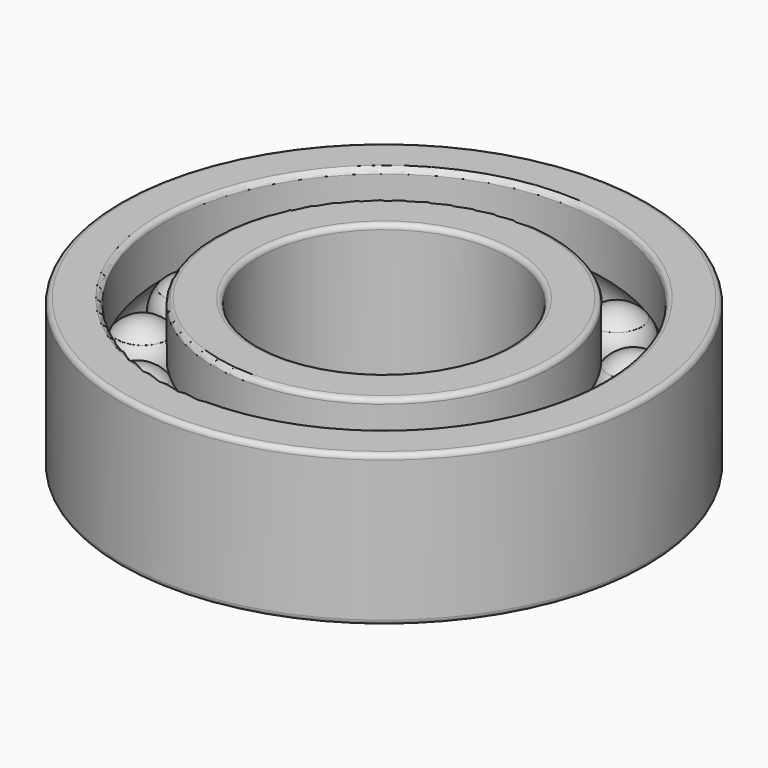
from build123d import *

# Parameters (mm, degrees)
F4_COUNT = 15


with BuildPart() as f1:
    # F0 (on Front) → F1 (revolve)
    with BuildSketch(Plane.XZ):
        with BuildLine():
            Line((-13.5, 5.6), (-13.5, 1.7078934393))
            ThreePointArc((-13.5, 1.7078934393), (-13.03252153, 0.9101922874), (-12.87, 0))
            ThreePointArc((-12.87, 0), (-13.03252153, -0.9101922874), (-13.5, -1.7078934393))
            Line((-13.5, -1.7078934393), (-13.5, -5.6))
            ThreePointArc((-13.5, -5.6), (-13.3828427125, -5.8828427125), (-13.1, -6))
            Line((-13.1, -6), (-10.4, -6))
            ThreePointArc((-10.4, -6), (-10.1171572875, -5.8828427125), (-10, -5.6))
            Line((-10, -5.6), (-10, 5.6))
            ThreePointArc((-10, 5.6), (-10.1171572875, 5.8828427125), (-10.4, 6))
            Line((-10.4, 6), (-13.1, 6))
            ThreePointArc((-13.1, 6), (-13.3828427125, 5.8828427125), (-13.5, 5.6))
        make_face()
    revolve(axis=Axis((0, 0, 0), (0, 0, -1)))

    # F0 (on Front) → F2 (revolve)
    with BuildSketch(Plane.XZ):
        with BuildLine():
            ThreePointArc((-15.5, 2.63), (-16.60116762, 2.3883738972), (-17.5, 1.7078934393))
            Line((-17.5, 1.7078934393), (-17.5, 1.7001838136))
            ThreePointArc((-17.5, 1.7001838136), (-18.125, 0), (-17.5, -1.7001838136))
            Line((-17.5, -1.7001838136), (-17.5, -1.7078934393))
            ThreePointArc((-17.5, -1.7078934393), (-16.60116762, -2.3883738972), (-15.5, -2.63))
            Line((-15.5, -2.63), (-15.5, 2.63))
        make_face()
    revolve(axis=Axis((-15.5, 0, 0), (0, 0, -1)))

    # F0 (on Front) → F3 (revolve)
    with BuildSketch(Plane.XZ):
        with BuildLine():
            ThreePointArc((-20.6, 6), (-20.8828427125, 5.8828427125), (-21, 5.6))
            Line((-21, 5.6), (-21, -5.6))
            ThreePointArc((-21, -5.6), (-20.8828427125, -5.8828427125), (-20.6, -6))
            Line((-20.6, -6), (-17.9, -6))
            ThreePointArc((-17.9, -6), (-17.6171572875, -5.8828427125), (-17.5, -5.6))
            Line((-17.5, -5.6), (-17.5, -1.7078934393))
            ThreePointArc((-17.5, -1.7078934393), (-18.13, 0), (-17.5, 1.7078934393))
            Line((-17.5, 1.7078934393), (-17.5, 5.6))
            ThreePointArc((-17.5, 5.6), (-17.6171572875, 5.8828427125), (-17.9, 6))
            Line((-17.9, 6), (-20.6, 6))
        make_face()
    revolve(axis=Axis((0, 0, 0), (0, 0, -1)))

    # F4: F1 ×15 about axis
    f4_axis = Axis((0, 0, 0), (0, 0, -1))


with BuildPart() as f1_1:
    add(f1.part)
    for i in range(1, F4_COUNT):
        add(f1.part.rotate(f4_axis, i * 360 / F4_COUNT))


solid = f1_1.part
